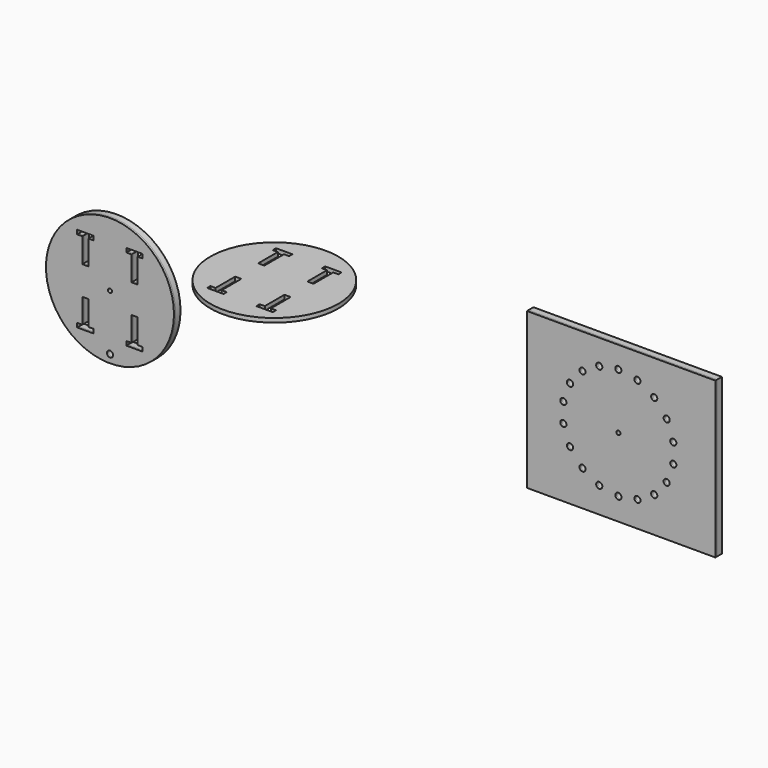
from build123d import *

# Parameters (mm, degrees)
F0_R     = 198.3867
F1_DEPTH = 12.7
F2_R     = 198.3867
F2_R_2   = 9.525
F2_R_3   = 6.3627
F3_DEPTH = 25.4
F2_W     = 584.2
F2_H     = 482.6
F4_DEPTH = 19.05


with BuildPart() as f1:
    # F0 (on Top) → F1 (new body)
    with BuildSketch(Plane.XY):
        with Locations((-50.8082764711, 20.6809789749)):
            Circle(F0_R)
        Polygon((-152.4165529422, -112.6690210251), (-152.4165529422, -106.3190210251), (-152.4165529422, -99.9695584533), (-136.5828598721, -99.9695584533), (-136.5828598721, -23.7695584533), (-127.0578598721, -23.7695584533), (-117.5328598721, -23.7695584533), (-117.5328598721, -99.9695584533), (-101.699166802, -99.9695584533), (-101.6165529422, -106.3190210251), (-101.6165529422, -112.6690210251), align=None, mode=Mode.SUBTRACT)
        Polygon((0, -112.6690210251), (0, -106.3190210251), (0, -99.9690210251), (15.9163069299, -99.9690210251), (15.9163069299, -23.7695584533), (25.4413069299, -23.7695584533), (34.9663069299, -23.7695584533), (34.9663069299, -99.9690210251), (50.8, -99.9690210251), (50.8, -106.3190210251), (50.8, -112.6690210251), align=None, mode=Mode.SUBTRACT)
        Polygon((-152.4165529422, 141.3309789749), (-152.4165529422, 147.6809789749), (-152.4165529422, 154.0309789749), (-101.6165529422, 154.0309789749), (-101.6165529422, 147.6809789749), (-101.6165529422, 141.3309789749), (-117.5328598721, 141.3309789749), (-117.5328598721, 65.1315164031), (-127.0578598721, 65.1315164031), (-136.5828598721, 65.1315164031), (-136.5828598721, 141.3309789749), align=None, mode=Mode.SUBTRACT)
        Polygon((0, 141.3309789749), (0, 147.6809789749), (0, 154.0309789749), (50.8, 154.0309789749), (50.8, 147.6809789749), (50.8, 141.3309789749), (34.9663069299, 141.3309789749), (34.9663069299, 65.1315164031), (25.4413069299, 65.1315164031), (15.9163069299, 65.1315164031), (15.9163069299, 141.3309789749), align=None, mode=Mode.SUBTRACT)
    extrude(amount=F1_DEPTH)


with BuildPart() as f3:
    # F2 (on Front) → F3 (new body)
    with BuildSketch(Plane.XZ):
        with Locations((-523.5113747018, -150.9910885598)):
            Circle(F2_R)
        with Locations((-523.5113747018, -323.9777885598)):
            Circle(F2_R_2, mode=Mode.SUBTRACT)
        Polygon((-625.1196511729, -284.3410885598), (-625.1196511729, -277.9910885598), (-625.1196511729, -271.6416259881), (-609.2859581028, -271.6416259881), (-609.2859581028, -195.4416259881), (-599.7609581028, -195.4416259881), (-590.2359581028, -195.4416259881), (-590.2359581028, -271.6416259881), (-574.4022650327, -271.6416259881), (-574.3196511729, -277.9910885598), (-574.3196511729, -284.3410885598), align=None, mode=Mode.SUBTRACT)
        Polygon((-472.7030982307, -284.3410885598), (-472.7030982307, -277.9910885598), (-472.7030982307, -271.6410885598), (-456.7867913009, -271.6410885598), (-456.7867913009, -195.4416259881), (-447.2617913009, -195.4416259881), (-437.7367913009, -195.4416259881), (-437.7367913009, -271.6410885598), (-421.9030982307, -271.6410885598), (-421.9030982307, -277.9910885598), (-421.9030982307, -284.3410885598), align=None, mode=Mode.SUBTRACT)
        with Locations((-523.5113747018, -150.9910885598)):
            Circle(F2_R_3, mode=Mode.SUBTRACT)
        Polygon((-625.1196511729, -30.3410885598), (-625.1196511729, -23.9910885598), (-625.1196511729, -17.6410885598), (-574.3196511729, -17.6410885598), (-574.3196511729, -23.9910885598), (-574.3196511729, -30.3410885598), (-590.2359581028, -30.3410885598), (-590.2359581028, -106.5405511316), (-599.7609581028, -106.5405511316), (-609.2859581028, -106.5405511316), (-609.2859581028, -30.3410885598), align=None, mode=Mode.SUBTRACT)
        Polygon((-472.7030982307, -30.3410885598), (-472.7030982307, -23.9910885598), (-472.7030982307, -17.6410885598), (-421.9030982307, -17.6410885598), (-421.9030982307, -23.9910885598), (-421.9030982307, -30.3410885598), (-437.7367913009, -30.3410885598), (-437.7367913009, -106.5405511316), (-447.2617913009, -106.5405511316), (-456.7867913009, -106.5405511316), (-456.7867913009, -30.3410885598), align=None, mode=Mode.SUBTRACT)
    extrude(amount=F3_DEPTH)


with BuildPart() as f3b:
    # F2 (on Front) → F3, piece 2 (new body)
    with BuildSketch(Plane.XZ):
        with Locations((1060.7814069748, -27.4344253063)):
            Rectangle(F2_W, F2_H)
        with Locations((1052.1739467706, -199.3147611038)):
            Circle(F2_R_2, mode=Mode.SUBTRACT)
        with Locations((993.0090108432, -188.8823865879)):
            Circle(F2_R_2, mode=Mode.SUBTRACT)
        with Locations((940.9802393701, -158.8435613723)):
            Circle(F2_R_2, mode=Mode.SUBTRACT)
        with Locations((1111.3388826981, -188.8823865879)):
            Circle(F2_R_2, mode=Mode.SUBTRACT)
        with Locations((1163.3676541712, -158.8435613723)):
            Circle(F2_R_2, mode=Mode.SUBTRACT)
        with Locations((902.3630700538, -112.8214111038)):
            Circle(F2_R_2, mode=Mode.SUBTRACT)
        with Locations((1201.9848234875, -112.8214111038)):
            Circle(F2_R_2, mode=Mode.SUBTRACT)
        with Locations((881.8153034426, -56.3668863194)):
            Circle(F2_R_2, mode=Mode.SUBTRACT)
        with Locations((1052.1739467706, -26.3280611038)):
            Circle(F2_R_3, mode=Mode.SUBTRACT)
        with Locations((1222.5325900986, -56.3668863194)):
            Circle(F2_R_2, mode=Mode.SUBTRACT)
        with Locations((881.8153034426, 3.7107641118)):
            Circle(F2_R_2, mode=Mode.SUBTRACT)
        with Locations((902.3630700538, 60.1652888962)):
            Circle(F2_R_2, mode=Mode.SUBTRACT)
        with Locations((1222.5325900986, 3.7107641118)):
            Circle(F2_R_2, mode=Mode.SUBTRACT)
        with Locations((1201.9848234875, 60.1652888962)):
            Circle(F2_R_2, mode=Mode.SUBTRACT)
        with Locations((940.9802393701, 106.1874391647)):
            Circle(F2_R_2, mode=Mode.SUBTRACT)
        with Locations((993.0090108432, 136.2262643803)):
            Circle(F2_R_2, mode=Mode.SUBTRACT)
        with Locations((1163.3676541712, 106.1874391647)):
            Circle(F2_R_2, mode=Mode.SUBTRACT)
        with Locations((1111.3388826981, 136.2262643803)):
            Circle(F2_R_2, mode=Mode.SUBTRACT)
        with Locations((1052.1739467706, 146.6586388962)):
            Circle(F2_R_2, mode=Mode.SUBTRACT)
    extrude(amount=F3_DEPTH)


with BuildPart() as f4:
    # F2 (on Front) → F4 (new body)
    with BuildSketch(Plane.XZ):
        with Locations((-523.5113747018, -150.9910885598)):
            Circle(F2_R)
        with Locations((-523.5113747018, -323.9777885598)):
            Circle(F2_R_2, mode=Mode.SUBTRACT)
        Polygon((-625.1196511729, -284.3410885598), (-625.1196511729, -277.9910885598), (-625.1196511729, -271.6416259881), (-609.2859581028, -271.6416259881), (-609.2859581028, -195.4416259881), (-599.7609581028, -195.4416259881), (-590.2359581028, -195.4416259881), (-590.2359581028, -271.6416259881), (-574.4022650327, -271.6416259881), (-574.3196511729, -277.9910885598), (-574.3196511729, -284.3410885598), align=None, mode=Mode.SUBTRACT)
        Polygon((-472.7030982307, -284.3410885598), (-472.7030982307, -277.9910885598), (-472.7030982307, -271.6410885598), (-456.7867913009, -271.6410885598), (-456.7867913009, -195.4416259881), (-447.2617913009, -195.4416259881), (-437.7367913009, -195.4416259881), (-437.7367913009, -271.6410885598), (-421.9030982307, -271.6410885598), (-421.9030982307, -277.9910885598), (-421.9030982307, -284.3410885598), align=None, mode=Mode.SUBTRACT)
        with Locations((-523.5113747018, -150.9910885598)):
            Circle(F2_R_3, mode=Mode.SUBTRACT)
        Polygon((-625.1196511729, -30.3410885598), (-625.1196511729, -23.9910885598), (-625.1196511729, -17.6410885598), (-574.3196511729, -17.6410885598), (-574.3196511729, -23.9910885598), (-574.3196511729, -30.3410885598), (-590.2359581028, -30.3410885598), (-590.2359581028, -106.5405511316), (-599.7609581028, -106.5405511316), (-609.2859581028, -106.5405511316), (-609.2859581028, -30.3410885598), align=None, mode=Mode.SUBTRACT)
        Polygon((-472.7030982307, -30.3410885598), (-472.7030982307, -23.9910885598), (-472.7030982307, -17.6410885598), (-421.9030982307, -17.6410885598), (-421.9030982307, -23.9910885598), (-421.9030982307, -30.3410885598), (-437.7367913009, -30.3410885598), (-437.7367913009, -106.5405511316), (-447.2617913009, -106.5405511316), (-456.7867913009, -106.5405511316), (-456.7867913009, -30.3410885598), align=None, mode=Mode.SUBTRACT)
    extrude(amount=F4_DEPTH)


with BuildPart() as f4b:
    # F2 (on Front) → F4, piece 2 (new body)
    with BuildSketch(Plane.XZ):
        with Locations((1060.7814069748, -27.4344253063)):
            Rectangle(F2_W, F2_H)
        with Locations((1052.1739467706, -199.3147611038)):
            Circle(F2_R_2, mode=Mode.SUBTRACT)
        with Locations((993.0090108432, -188.8823865879)):
            Circle(F2_R_2, mode=Mode.SUBTRACT)
        with Locations((940.9802393701, -158.8435613723)):
            Circle(F2_R_2, mode=Mode.SUBTRACT)
        with Locations((1111.3388826981, -188.8823865879)):
            Circle(F2_R_2, mode=Mode.SUBTRACT)
        with Locations((1163.3676541712, -158.8435613723)):
            Circle(F2_R_2, mode=Mode.SUBTRACT)
        with Locations((902.3630700538, -112.8214111038)):
            Circle(F2_R_2, mode=Mode.SUBTRACT)
        with Locations((1201.9848234875, -112.8214111038)):
            Circle(F2_R_2, mode=Mode.SUBTRACT)
        with Locations((881.8153034426, -56.3668863194)):
            Circle(F2_R_2, mode=Mode.SUBTRACT)
        with Locations((1052.1739467706, -26.3280611038)):
            Circle(F2_R_3, mode=Mode.SUBTRACT)
        with Locations((1222.5325900986, -56.3668863194)):
            Circle(F2_R_2, mode=Mode.SUBTRACT)
        with Locations((881.8153034426, 3.7107641118)):
            Circle(F2_R_2, mode=Mode.SUBTRACT)
        with Locations((902.3630700538, 60.1652888962)):
            Circle(F2_R_2, mode=Mode.SUBTRACT)
        with Locations((1222.5325900986, 3.7107641118)):
            Circle(F2_R_2, mode=Mode.SUBTRACT)
        with Locations((1201.9848234875, 60.1652888962)):
            Circle(F2_R_2, mode=Mode.SUBTRACT)
        with Locations((940.9802393701, 106.1874391647)):
            Circle(F2_R_2, mode=Mode.SUBTRACT)
        with Locations((993.0090108432, 136.2262643803)):
            Circle(F2_R_2, mode=Mode.SUBTRACT)
        with Locations((1163.3676541712, 106.1874391647)):
            Circle(F2_R_2, mode=Mode.SUBTRACT)
        with Locations((1111.3388826981, 136.2262643803)):
            Circle(F2_R_2, mode=Mode.SUBTRACT)
        with Locations((1052.1739467706, 146.6586388962)):
            Circle(F2_R_2, mode=Mode.SUBTRACT)
    extrude(amount=F4_DEPTH)


solid = Compound([f1.part, f3.part, f3b.part, f4.part, f4b.part])
